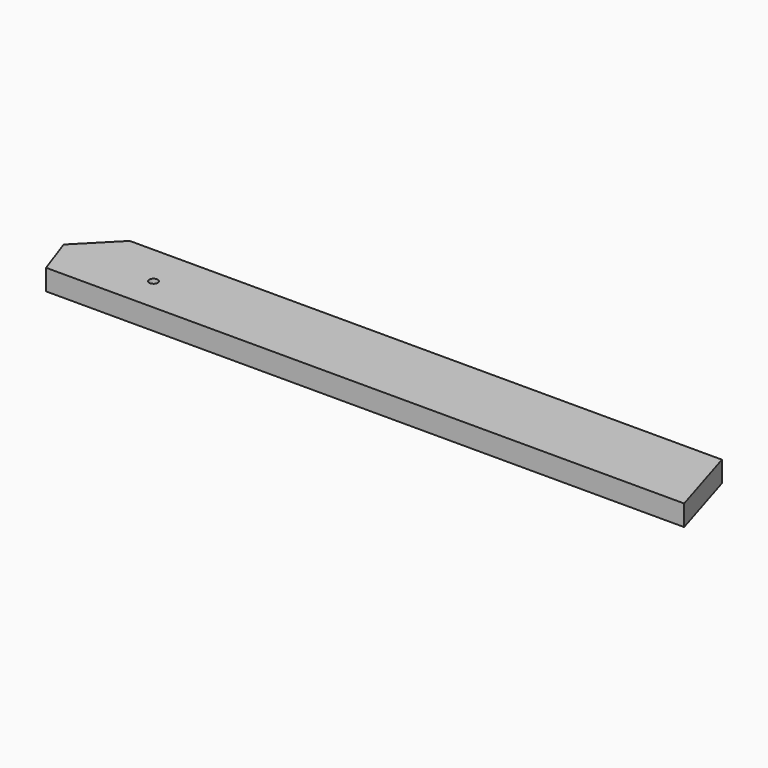
from build123d import *

# Parameters (mm, degrees)
F0_R     = 3.96875
F1_DEPTH = 19.05


with BuildPart() as f1:
    # F0 (on Top) → F1 (new body)
    with BuildSketch(Plane.XY):
        Polygon((298.45, -34.925), (277.151453, 34.925), (-265.02897, 34.925), (-298.45, 0.996024), (-285.75, -34.925), align=None)
        with Locations((-212.725, -3.175)):
            Circle(F0_R, mode=Mode.SUBTRACT)
    extrude(amount=F1_DEPTH)


solid = f1.part
